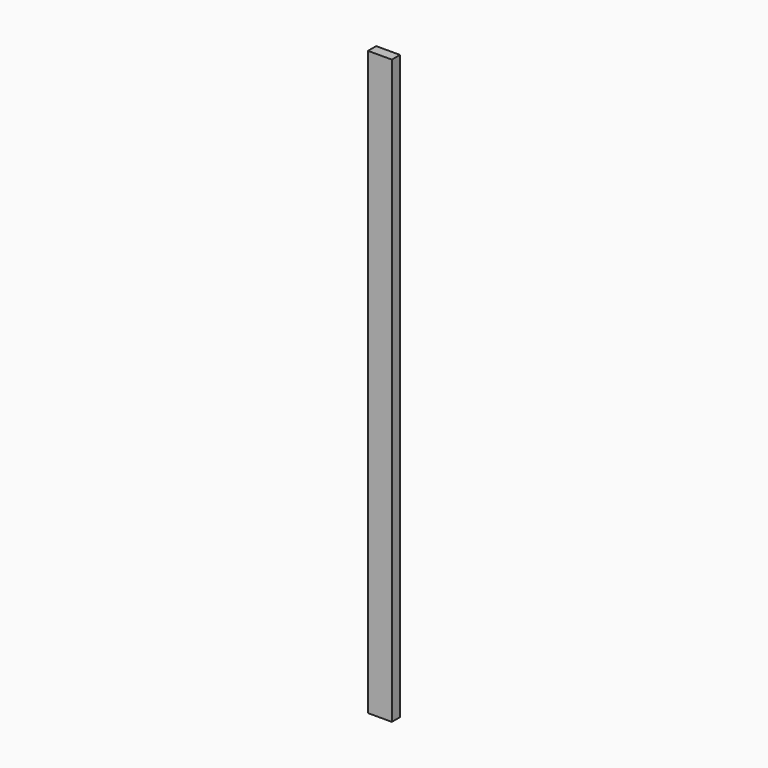
from build123d import *

# Parameters (mm, degrees)
SKETCH_W  = 88.9
SKETCH_H  = 38.1
PAD_DEPTH = 2171.7


with BuildPart() as part:
    # Sketch → Pad (new body)
    with BuildSketch(Plane.XY):
        with Locations((44.45, 19.05)):
            Rectangle(SKETCH_W, SKETCH_H)
    extrude(amount=PAD_DEPTH)


solid = part.part
